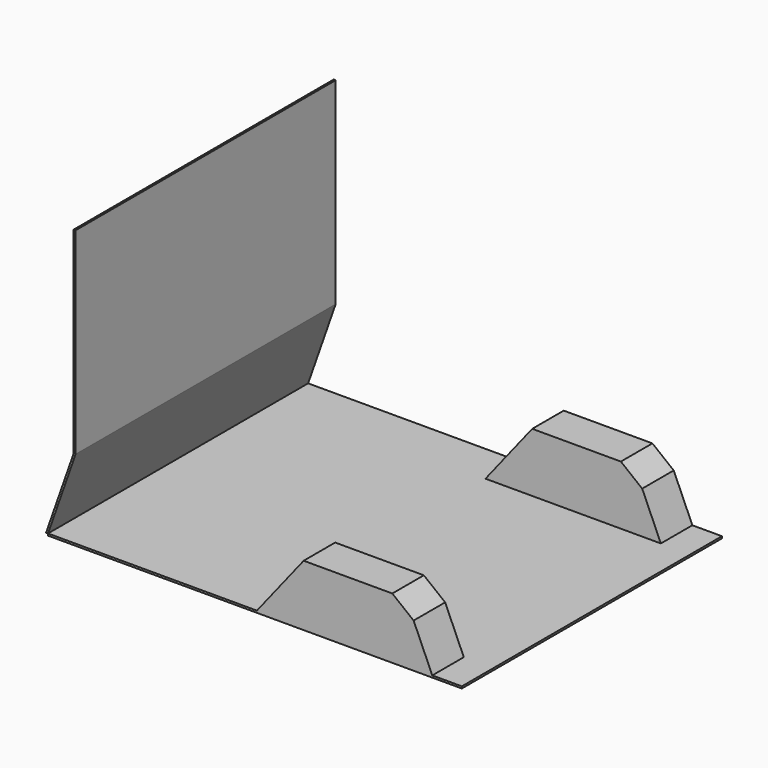
from build123d import *

# Parameters (mm, degrees)
F0_W     = 2100
F0_H     = 1650
F2_DEPTH = 10
F3_DEPTH = 1650
F5_DEPTH = 200
F7_DEPTH = 200


with BuildPart() as f2:
    # F0 (on Top) → F2 (new body)
    with BuildSketch(Plane.XY):
        with Locations((1050, 825)):
            Rectangle(F0_W, F0_H)
    extrude(amount=-F2_DEPTH)

    # F4 (on face) → F5 (join)
    with BuildSketch(Plane.XZ):
        Polygon((1060, 0), (1950, 0), (1855.373144, 214.266241), (1747.180414, 300), (1297.180414, 300), align=None)
    extrude(amount=-F5_DEPTH)

    # F6 (on face) → F7 (join)
    with BuildSketch(Plane(origin=(0, 1650, 0), x_dir=(-1, 0, 0), z_dir=(0, 1, 0))):
        Polygon((-1855.373144, 214.266241), (-1950, 0), (-1060, 0), (-1297.180414, 300), (-1747.180414, 300), align=None)
    extrude(amount=-F7_DEPTH)


with BuildPart() as f3:
    # F1 (on Front) → F3 (new body)
    with BuildSketch(Plane.XZ):
        Polygon((-10, 0), (0, 0), (140, 400), (140, 1400), (130, 1400), (130, 400), align=None)
    extrude(amount=-F3_DEPTH)


solid = Compound([f2.part, f3.part])
